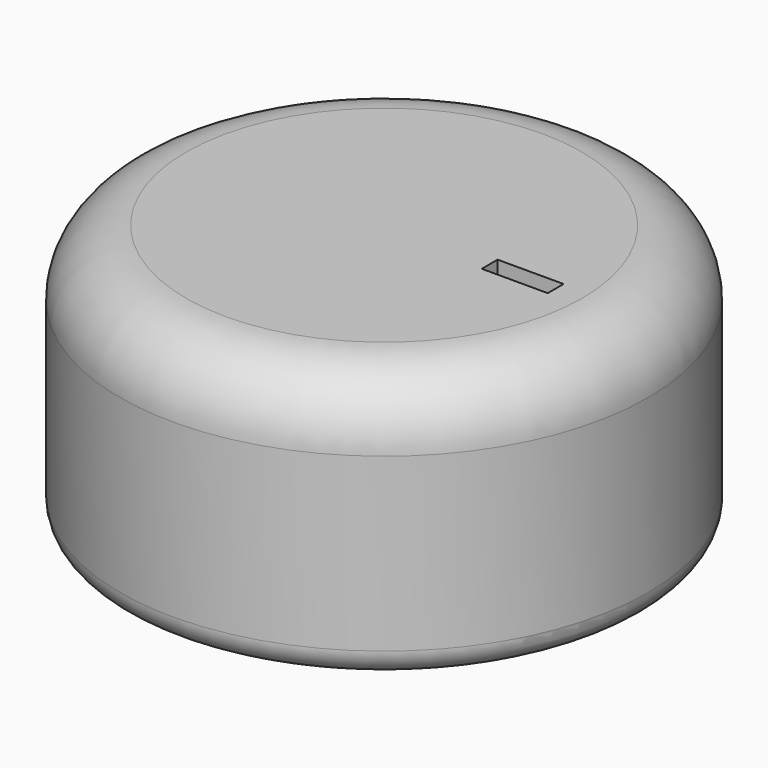
from build123d import *

# Parameters (mm, degrees)
SKETCH_R        = 20
PAD_DEPTH       = 20
SKETCH001_R     = 4.5
POCKET_DEPTH    = 1
FILLET_R        = 5
FILLET001_R     = 2
SKETCH002_W     = 5
SKETCH002_H     = 1.5
POCKET001_DEPTH = 1


with BuildPart() as part:
    # Sketch → Pad (new body)
    with BuildSketch(Plane.XY):
        Circle(SKETCH_R)
    extrude(amount=PAD_DEPTH)

    # Sketch001 → Pocket (cut)
    with BuildSketch(Plane.XY):
        Circle(SKETCH001_R)
    extrude(amount=POCKET_DEPTH, mode=Mode.SUBTRACT)

    # Fillet
    fillet_edges = [part.edges().sort_by_distance(p)[0] for p in [
        (-20, 0, 20),
    ]]
    fillet(fillet_edges, radius=FILLET_R)

    # Fillet001
    fillet001_edges = [part.edges().sort_by_distance(p)[0] for p in [
        (-20, 0, 0),
    ]]
    fillet(fillet001_edges, radius=FILLET001_R)

    # Sketch002 → Pocket001 (cut)
    with BuildSketch(Plane.XY.offset(20)):
        with Locations((10.5, 0)):
            Rectangle(SKETCH002_W, SKETCH002_H)
    extrude(amount=-POCKET001_DEPTH, mode=Mode.SUBTRACT)


solid = part.part
